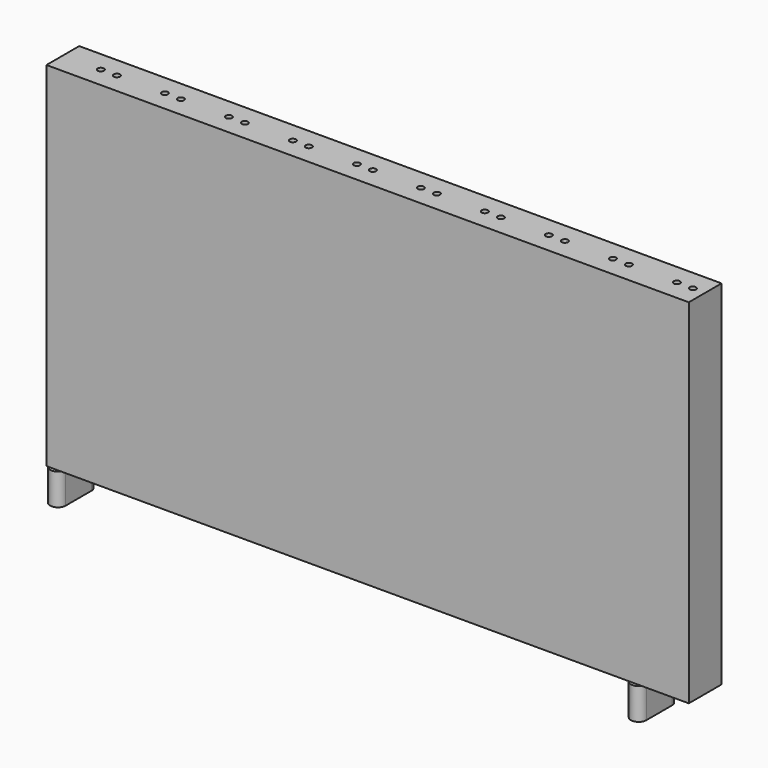
from build123d import *

# Parameters (mm, degrees)
SKETCH_W     = 101.9675
SKETCH_H     = 6.5
PAD_DEPTH    = 56.05
SKETCH001_R  = 0.5
POCKET_DEPTH = 70
PAD001_DEPTH = 5


with BuildPart() as part:
    # Sketch → Pad (new body)
    with BuildSketch(Plane.XY):
        with Locations((-2.03875, 0)):
            Rectangle(SKETCH_W, SKETCH_H)
    extrude(amount=PAD_DEPTH)

    # Sketch001 (on Face6 of Pad) → Pocket (cut)
    with BuildSketch(Plane.XY.offset(56.05)):
        with Locations((3.81, 0)):
            Circle(SKETCH001_R)
        with Locations((6.35, 0)):
            Circle(SKETCH001_R)
        with Locations((-16.51, 0)):
            Circle(SKETCH001_R)
        with Locations((-13.97, 0)):
            Circle(SKETCH001_R)
        with Locations((-34.29, 0)):
            Circle(SKETCH001_R)
        with Locations((-36.83, 0)):
            Circle(SKETCH001_R)
        with Locations((13.97, 0)):
            Circle(SKETCH001_R)
        with Locations((16.51, 0)):
            Circle(SKETCH001_R)
        with Locations((24.13, 0)):
            Circle(SKETCH001_R)
        with Locations((26.67, 0)):
            Circle(SKETCH001_R)
        with Locations((34.29, 0)):
            Circle(SKETCH001_R)
        with Locations((36.83, 0)):
            Circle(SKETCH001_R)
        with Locations((44.45, 0)):
            Circle(SKETCH001_R)
        with Locations((46.99, 0)):
            Circle(SKETCH001_R)
        with Locations((-46.99, 0)):
            Circle(SKETCH001_R)
        with Locations((-44.45, 0)):
            Circle(SKETCH001_R)
        with Locations((-26.67, 0)):
            Circle(SKETCH001_R)
        with Locations((-24.13, 0)):
            Circle(SKETCH001_R)
        with Locations((-6.35, 0)):
            Circle(SKETCH001_R)
        with Locations((-3.81, 0)):
            Circle(SKETCH001_R)
    extrude(amount=-POCKET_DEPTH, mode=Mode.SUBTRACT)

    # Sketch002 (on Face4 of Pocket) → Pad001 (join)
    with BuildSketch(Plane(origin=(0, 0, 0), x_dir=(1, 0, 0), z_dir=(0, 0, -1))):
        with BuildLine():
            Line((-50.52, 2.56), (-50.52, -2.56))
            ThreePointArc((-52.97, -2.56), (-51.745, -3.789911), (-50.52, -2.56))
            Line((-52.97, -2.56), (-52.97, 2.56))
            ThreePointArc((-50.52, 2.56), (-51.745, 3.795206), (-52.97, 2.56))
        make_face()
        with BuildLine():
            Line((41.66, 2.56), (41.66, -2.56))
            ThreePointArc((39.21, -2.56), (40.435, -3.757758), (41.66, -2.56))
            Line((39.21, -2.56), (39.21, 2.56))
            ThreePointArc((41.66, 2.56), (40.435, 3.795415), (39.21, 2.56))
        make_face()
    extrude(amount=PAD001_DEPTH)


solid = part.part
